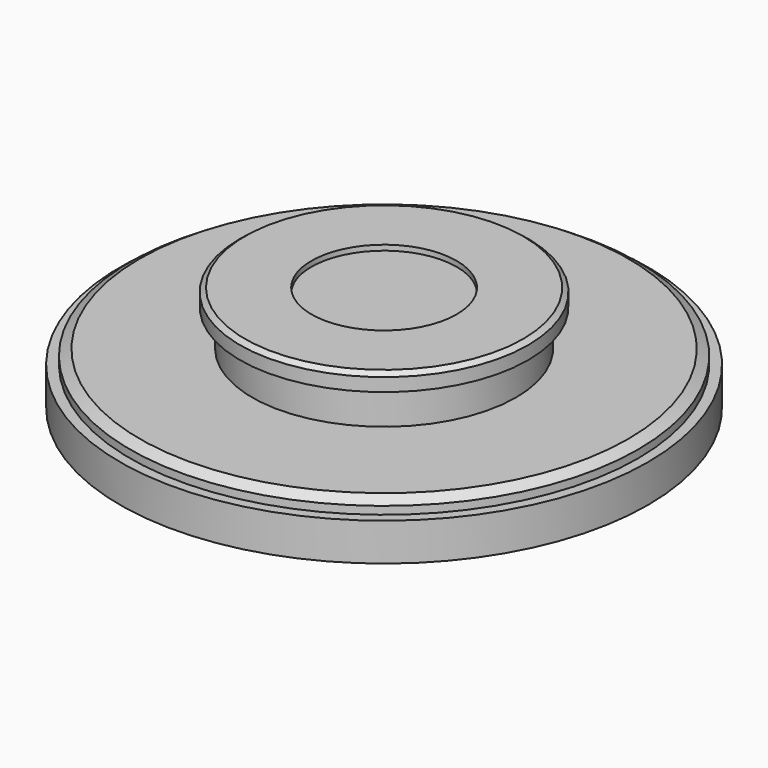
from build123d import *

# Parameters (mm, degrees)
F0_W     = 50
F0_H     = 13.9433727747
F0_W_2   = 96.2071910579
F0_H_2   = 2.9663876979
F2_R     = 27.5
F3_DEPTH = 2


with BuildPart() as f1:
    # F0 (on Front) → F1 (revolve)
    with BuildSketch(Plane.XZ):
        Polygon((0, 38.5408075477), (0, 33.5408075477), (50, 33.5408075477), (54.5771052862, 33.5408075477), (54.5771052862, 38.5408075477), align=None)
        Polygon((0, 40), (0, 38.5408075477), (54.5771052862, 38.5408075477), (52.7089235076, 40), align=None)
        with Locations((25, 26.5691211603)):
            Rectangle(F0_W, F0_H)
        with Locations((48.1035955289, 15.7815453776)):
            Rectangle(F0_W_2, F0_H_2)
        Polygon((0, 19.597434773), (0, 17.2647392265), (96.2071910579, 17.2647392265), (92.5137510409, 19.597434773), (50, 19.597434773), align=None)
        Polygon((0, 14.2983515286), (0, 0), (100, 0), (100, 14.2983515286), (96.2071910579, 14.2983515286), align=None)
    revolve(axis=Axis((0, 0, 20), (0, 0, -1)))

    # F2 (on face) → F3 (cut)
    with BuildSketch(Plane.XY.offset(40)):
        Circle(F2_R)
    extrude(amount=-F3_DEPTH, mode=Mode.SUBTRACT)


solid = f1.part
